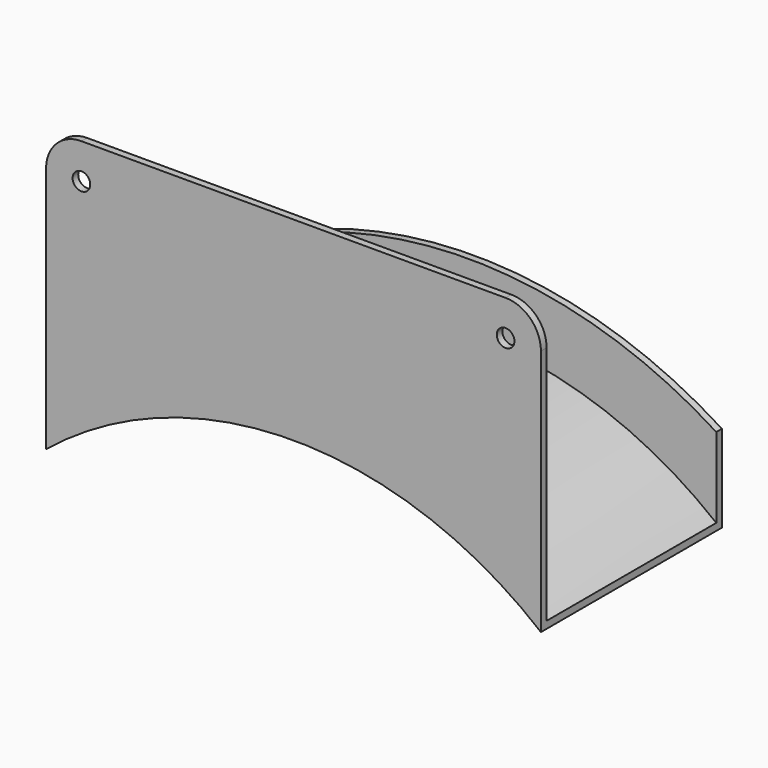
from build123d import *

# Parameters (mm, degrees)
F1_DEPTH = 1.27
F3_DEPTH = 38.1
F5_DEPTH = 1.27
F6_R     = 1.5875
F7_DEPTH = 25.4


with BuildPart() as f1:
    # F0 (on Front) → F1 (new body)
    with BuildSketch(Plane.XZ):
        with BuildLine():
            Line((-44.45, 15.644758), (-44.45, 0))
            ThreePointArc((-44.45, 0), (0, 15.875), (44.45, 0))
            Line((44.45, 0), (44.45, 15.644758))
            ThreePointArc((44.45, 15.644758), (0, 28.575), (-44.45, 15.644758))
        make_face()
    extrude(amount=F1_DEPTH)

    # F2 (on face) → F3 (join)
    with BuildSketch(Plane.XZ.offset(1.27)):
        with BuildLine():
            ThreePointArc((-44.45, 0), (0, 15.875), (44.45, 0))
            Line((44.45, 0), (44.45, 1.27))
            ThreePointArc((44.45, 1.27), (0, 16.862218), (-44.45, 1.27))
            Line((-44.45, 1.27), (-44.45, 0))
        make_face()
    extrude(amount=F3_DEPTH)

    # F4 (on face) → F5 (join)
    with BuildSketch(Plane.XZ.offset(39.37)):
        with BuildLine():
            Line((-44.45, 44.45), (-44.45, 0))
            ThreePointArc((-44.45, 0), (0, 15.875), (44.45, 0))
            Line((44.45, 0), (44.45, 44.45))
            ThreePointArc((44.45, 44.45), (42.590128, 48.940128), (38.1, 50.8))
            Line((38.1, 50.8), (-38.1, 50.8))
            ThreePointArc((-38.1, 50.8), (-42.590128, 48.940128), (-44.45, 44.45))
        make_face()
    extrude(amount=F5_DEPTH)

    # F6 (on face) → F7 (cut)
    with BuildSketch(Plane(origin=(0, -39.37, 0), x_dir=(-1, 0, 0), z_dir=(0, 1, 0))):
        with Locations((-38.1, 44.45)):
            Circle(F6_R)
        with Locations((38.1, 44.45)):
            Circle(F6_R)
    extrude(amount=-F7_DEPTH, mode=Mode.SUBTRACT)


solid = f1.part
